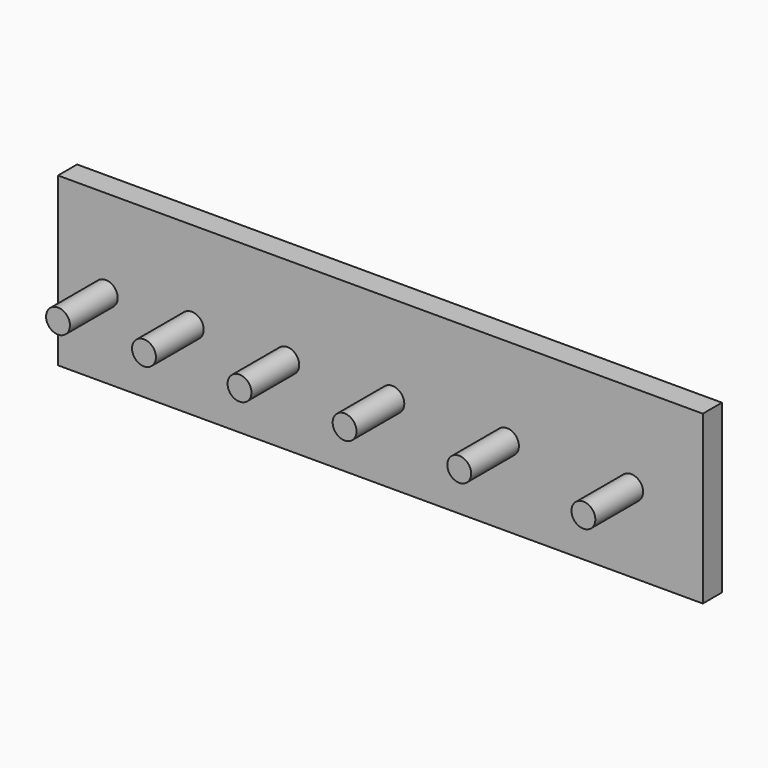
from build123d import *

# Parameters (mm, degrees)
F0_W     = 270
F0_H     = 70
F0_R     = 5
F1_DEPTH = 10
F2_R     = 5
F3_DEPTH = 25


with BuildPart() as f1:
    # F0 (on Front) → F1 (new body)
    with BuildSketch(Plane.XZ):
        with Locations((-11.40806, 1.204433)):
            Rectangle(F0_W, F0_H)
        with Locations((-126.40806, 0)):
            Circle(F0_R, mode=Mode.SUBTRACT)
        with Locations((-90.40806, 0)):
            Circle(F0_R, mode=Mode.SUBTRACT)
        with Locations((-50.40806, 0)):
            Circle(F0_R, mode=Mode.SUBTRACT)
        with Locations((-6.40806, 0)):
            Circle(F0_R, mode=Mode.SUBTRACT)
        with Locations((41.59194, 0)):
            Circle(F0_R, mode=Mode.SUBTRACT)
        with Locations((93.59194, 0)):
            Circle(F0_R, mode=Mode.SUBTRACT)
        with Locations((93.59194, 0)):
            Circle(F0_R)
        with Locations((41.59194, 0)):
            Circle(F0_R)
        with Locations((-6.40806, 0)):
            Circle(F0_R)
        with Locations((-50.40806, 0)):
            Circle(F0_R)
        with Locations((-90.40806, 0)):
            Circle(F0_R)
        with Locations((-126.40806, 0)):
            Circle(F0_R)
    extrude(amount=F1_DEPTH)

    # F2 (on face) → F3 (join)
    with BuildSketch(Plane.XZ.offset(10)):
        with Locations((-126.40806, -0.795567)):
            Circle(F2_R)
        with Locations((-90.40806, -0.795567)):
            Circle(F2_R)
        with Locations((-50.40806, -0.795567)):
            Circle(F2_R)
        with Locations((41.59194, -0.795567)):
            Circle(F2_R)
        with Locations((93.59194, -0.795567)):
            Circle(F2_R)
        with Locations((-6.40806, -0.795567)):
            Circle(F2_R)
    extrude(amount=F3_DEPTH)


solid = f1.part
